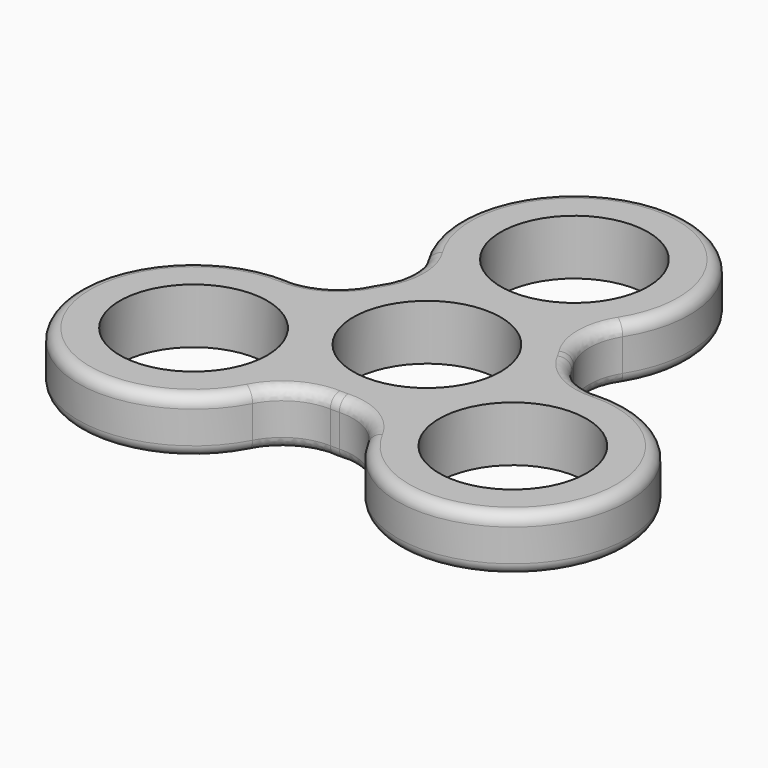
from build123d import *

# Parameters (mm, degrees)
F0_R     = 6.4
F1_DEPTH = 4.8
F2_R     = 5
F3_R     = 1


with BuildPart() as f1:
    # F0 (on Top) → F1 (new body)
    with BuildSketch(Plane.XY):
        with BuildLine():
            ThreePointArc((9.9282032303, 1.1961524227), (8.6602540378, 5), (6, 8))
            ThreePointArc((6, 8), (0, 26), (-6, 8))
            ThreePointArc((-6, 8), (-8.6602540378, 5), (-9.9282032303, 1.1961524227))
            ThreePointArc((-9.9282032303, 1.1961524227), (-22.5166604984, -13), (-3.9282032303, -9.1961524227))
            ThreePointArc((-3.9282032303, -9.1961524227), (0, -10), (3.9282032303, -9.1961524227))
            ThreePointArc((3.9282032303, -9.1961524227), (22.5166604984, -13), (9.9282032303, 1.1961524227))
        make_face()
        with Locations((-13.8564064606, -8)):
            Circle(F0_R, mode=Mode.SUBTRACT)
        with Locations((13.8564064606, -8)):
            Circle(F0_R, mode=Mode.SUBTRACT)
        Circle(F0_R, mode=Mode.SUBTRACT)
        with Locations((0, 16)):
            Circle(F0_R, mode=Mode.SUBTRACT)
    extrude(amount=F1_DEPTH)

    # F2
    f2_edges = [f1.edges().sort_by_distance(p)[0] for p in [
        (6, 8, 2.4),
        (9.928203, 1.196152, 2.4),
        (3.928203, -9.196152, 2.4),
        (-3.928203, -9.196152, 2.4),
        (-9.928203, 1.196152, 2.4),
        (-6, 8, 2.4),
    ]]
    fillet(f2_edges, radius=F2_R)

    # F3
    f3_edges = [f1.edges().sort_by_distance(p)[0] for p in [
        (-7.688578, 8, 0),
        (0, 26, 4.8),
    ]]
    fillet(f3_edges, radius=F3_R)


solid = f1.part
